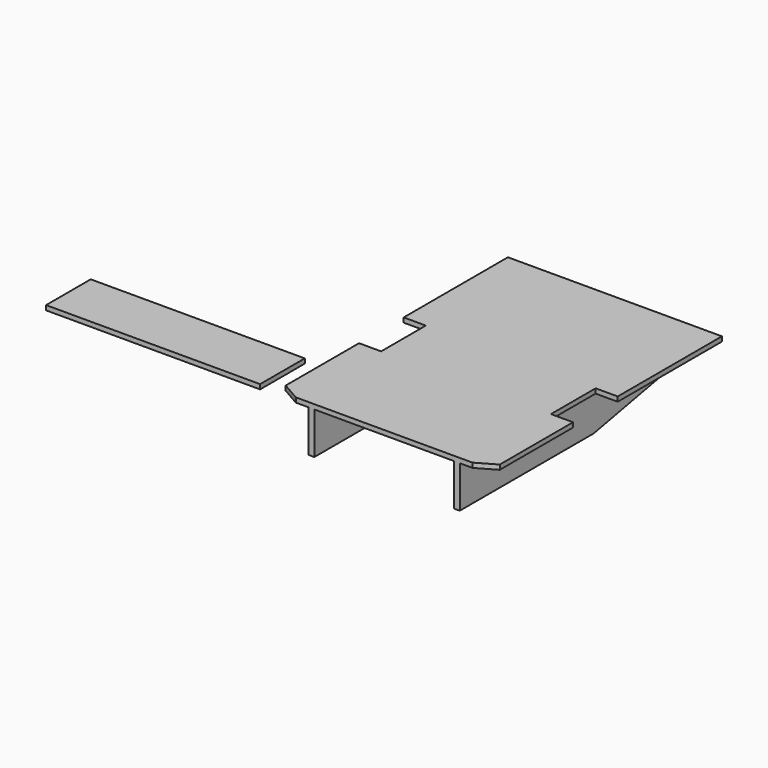
from build123d import *

# Parameters (mm, degrees)
F0_W     = 762
F0_H     = 1574.8
F0_W_2   = 31.75
F1_DEPTH = 25.4
F2_DEPTH = 228.6
F3_W     = 1168.4
F3_H     = 304.8
F4_DEPTH = 25.4
F6_DEPTH = 2540


with BuildPart() as f1:
    # F0 (on Top) → F1 (new body)
    with BuildSketch(Plane.XY):
        with Locations((584.2, 787.4)):
            Rectangle(F0_W, F0_H)
        with Locations((981.075, 787.4)):
            Rectangle(F0_W_2, F0_H)
        Polygon((0, 58.658787), (101.6, 0), (171.45, 0), (171.45, 1574.8), (0, 1574.8), (0, 863.6), (120.65, 863.6), (120.65, 558.8), (0, 558.8), align=None)
        with Locations((187.325, 787.4)):
            Rectangle(F0_W_2, F0_H)
        Polygon((996.95, 1574.8), (996.95, 0), (1066.8, 0), (1168.4, 58.658787), (1168.4, 558.8), (1047.75, 558.8), (1047.75, 863.6), (1168.4, 863.6), (1168.4, 1574.8), align=None)
    extrude(amount=F1_DEPTH)

    # F0 (on Top) → F2 (join)
    with BuildSketch(Plane.XY):
        with Locations((187.325, 787.4)):
            Rectangle(F0_W_2, F0_H)
        with Locations((981.075, 787.4)):
            Rectangle(F0_W_2, F0_H)
    extrude(amount=-F2_DEPTH)

    # F5 (on face) → F6 (cut)
    with BuildSketch(Plane.YZ.offset(996.95)):
        Polygon((1574.8, -101.6), (914.4, -228.6), (1574.8, -228.6), align=None)
    extrude(amount=-F6_DEPTH, mode=Mode.SUBTRACT)


with BuildPart() as f4:
    # F3 (on Top) → F4 (new body)
    with BuildSketch(Plane.XY):
        with Locations((-677.334176, 152.4)):
            Rectangle(F3_W, F3_H)
    extrude(amount=F4_DEPTH)


solid = Compound([f1.part, f4.part])
